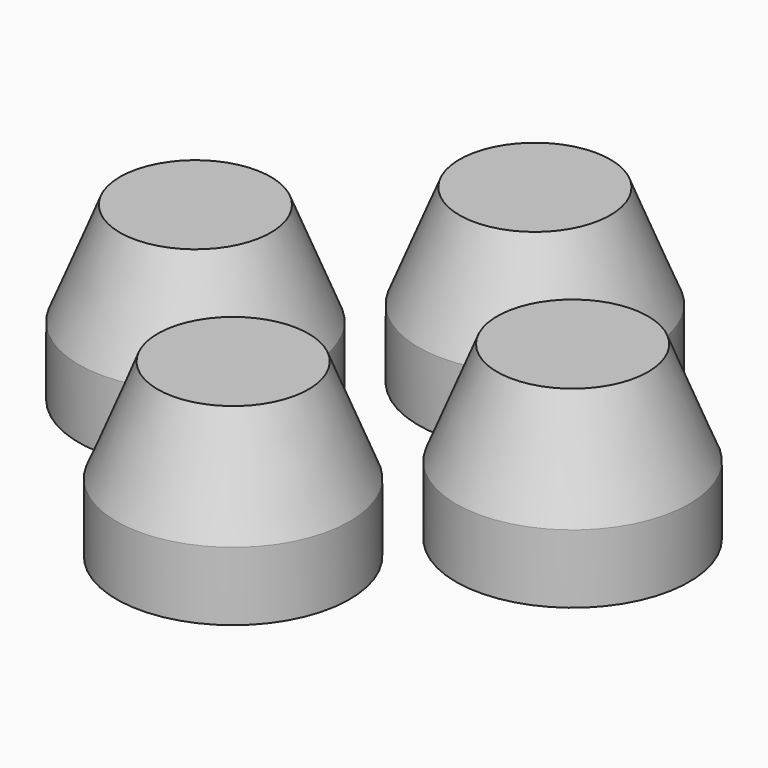
from build123d import *

# Parameters (mm, degrees)
CYLINDER010_R     = 340
CYLINDER010_DEPTH = 200
ARRAY003_COUNT    = 4


with BuildPart() as cylinder010:
    # Cylinder010 → Cylinder010 (new body)
    with BuildSketch(Plane.XY.offset(-500)):
        Circle(CYLINDER010_R)
    extrude(amount=CYLINDER010_DEPTH)


with BuildPart() as array005:
    # Cone007 → Cone007 (revolve)
    with BuildSketch(Plane(origin=(0, 0, 0), x_dir=(-1, 0, 0), z_dir=(0, -1, 0))):
        Polygon((0, 0), (220, 0), (340, 300), (0, 300), align=None)
    revolve(axis=Axis((0, 0, 0), (0, 0, -1)))

    # Fusion003003006: union Cylinder010
    add(cylinder010.part)


with BuildPart() as array005_1:
    # Fusion003003006 placement: moved
    add(array005.part.moved(Location((-550, 0, 0))))

    # Array003: Array005 ×4 about axis
    array003_axis = Axis((0, 0, 1), (0, 0, 1))


with BuildPart() as array005_2:
    add(array005_1.part)
    for i in range(1, ARRAY003_COUNT):
        add(array005_1.part.rotate(array003_axis, i * 360 / ARRAY003_COUNT))


with BuildPart() as array005_3:
    # Array003 placement: moved
    add(array005_2.part.moved(Location((0, 0, -48200))))


solid = array005_3.part
